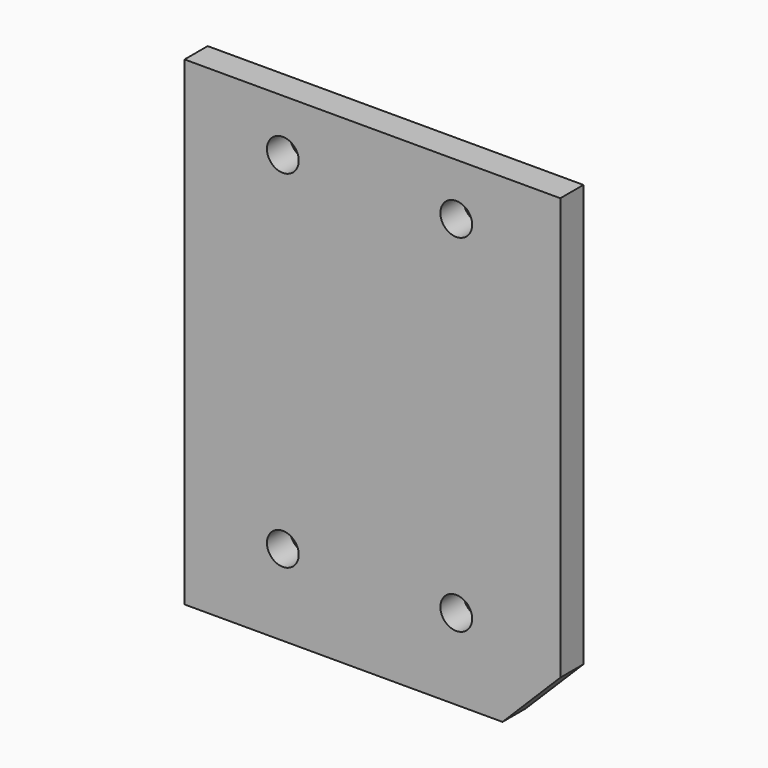
from build123d import *

# Parameters (mm, degrees)
F0_W     = 65
F0_H     = 83
F0_R     = 2.75
F1_DEPTH = 5
F2_SIZE  = 10


with BuildPart() as f1:
    # F0 (on Front) → F1 (new body)
    with BuildSketch(Plane.XZ):
        with Locations((32.5, 41.5)):
            Rectangle(F0_W, F0_H)
        with Locations((17, 14)):
            Circle(F0_R, mode=Mode.SUBTRACT)
        with Locations((47, 14)):
            Circle(F0_R, mode=Mode.SUBTRACT)
        with Locations((17, 74)):
            Circle(F0_R, mode=Mode.SUBTRACT)
        with Locations((47, 74)):
            Circle(F0_R, mode=Mode.SUBTRACT)
    extrude(amount=F1_DEPTH)

    # F2
    f2_edges = [f1.edges().sort_by_distance(p)[0] for p in [
        (65, -2.5, 0),
    ]]
    chamfer(f2_edges, length=F2_SIZE)


solid = f1.part
